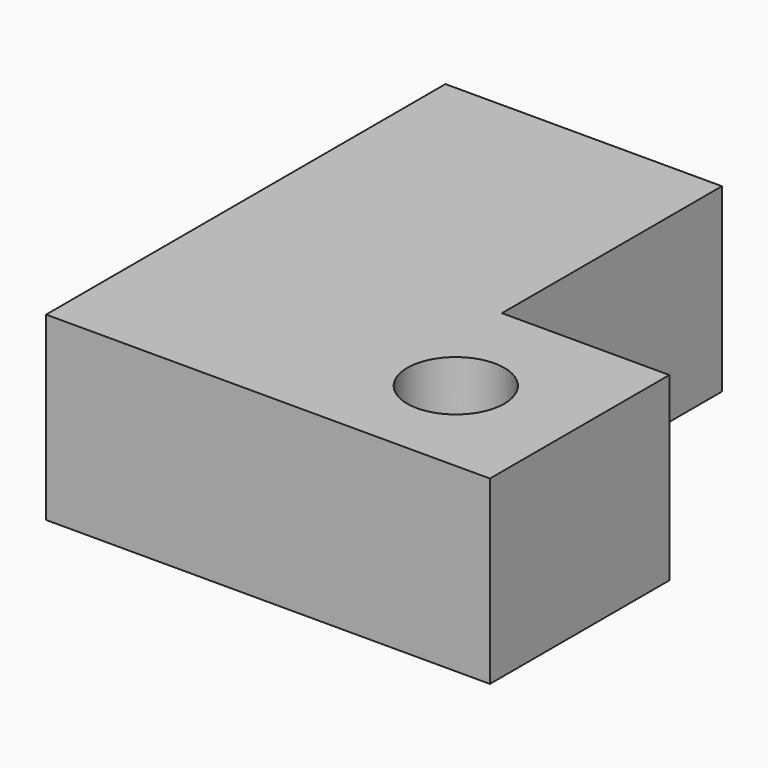
from build123d import *

# Parameters (mm, degrees)
F1_DEPTH = 6.35
F2_R     = 8.526459
F3_DEPTH = 25.4


with BuildPart() as f1:
    # F0 (on Top) → F1 (new body)
    with BuildSketch(Plane.XY):
        Polygon((0, 87.647445), (0, 0), (77.93209, 0), (77.93209, 39.367672), (48.543904, 39.367672), (48.543904, 87.647445), align=None)
    extrude(amount=F1_DEPTH)

    # F2 (on face) → F3 (join)
    with BuildSketch(Plane.XY.offset(6.35)):
        Polygon((48.543904, 87.647445), (0, 87.647445), (0, 0), (77.93209, 0), (77.93209, 39.367672), (48.543904, 39.367672), align=None)
        with Locations((57.070363, 18.580481)):
            Circle(F2_R, mode=Mode.SUBTRACT)
    extrude(amount=F3_DEPTH)


solid = f1.part
